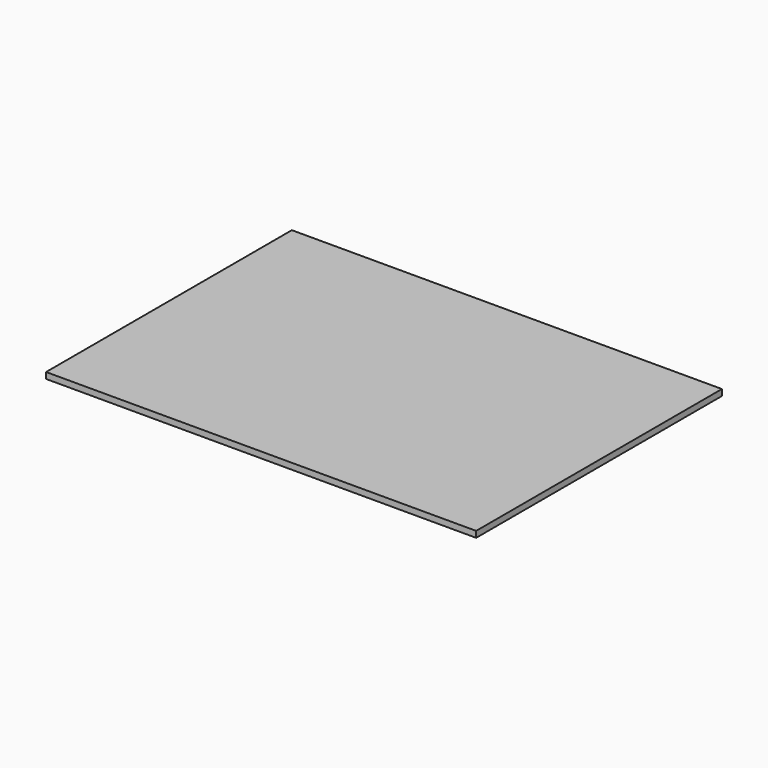
from build123d import *

# Parameters (mm, degrees)
F0_W     = 177.8
F0_H     = 127
F0_W_2   = 177.292
F0_H_2   = 126.492
F1_DEPTH = 0.254
F2_DEPTH = 2.54
F3_DEPTH = 2.286


with BuildPart() as f1:
    # F0 (on Top) → F1 (new body)
    with BuildSketch(Plane.XY):
        with Locations((12.7000018626, 10.0612770415)):
            Rectangle(F0_W, F0_H)
        with Locations((12.7000018626, 10.0612770415)):
            Rectangle(F0_W_2, F0_H_2, mode=Mode.SUBTRACT)
        with Locations((12.7000018626, 10.0612770415)):
            Rectangle(F0_W_2, F0_H_2)
    extrude(amount=F1_DEPTH)

    # F0 (on Top) → F2 (join)
    with BuildSketch(Plane.XY):
        with Locations((12.7000018626, 10.0612770415)):
            Rectangle(F0_W, F0_H)
        with Locations((12.7000018626, 10.0612770415)):
            Rectangle(F0_W_2, F0_H_2, mode=Mode.SUBTRACT)
    extrude(amount=F2_DEPTH)


with BuildPart() as f3:
    # F3 (new, through all): a face of the model
    f3_faces = [f1.part.faces().sort_by_distance(p)[0] for p in [
        (12.7000018626, 10.0612770415, 0.254),
    ]]
    extrude(f3_faces, amount=F3_DEPTH)


solid = Compound([f1.part, f3.part])
